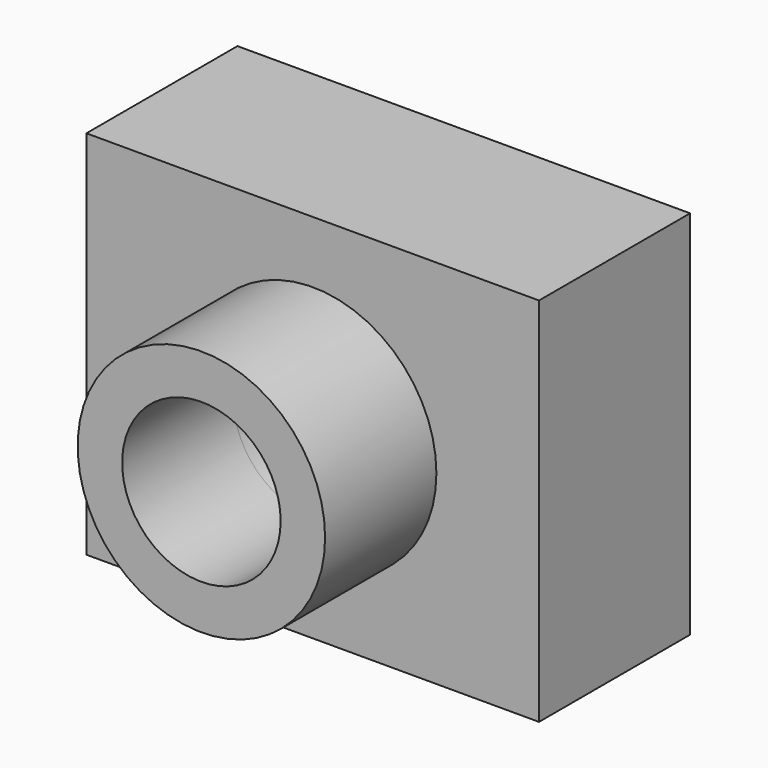
from build123d import *

# Parameters (mm, degrees)
F0_W      = 123.952538
F0_H      = 51.712212
F1_DEPTH  = 101.6
F2_R      = 33.878602
F2_R_2    = 21.701587
F3_DEPTH  = 38.1
F3_FACE_R = 21.701587
F4_DEPTH  = 2540


with BuildPart() as f1:
    # F0 (on Top) → F1 (new body)
    with BuildSketch(Plane.XY):
        Rectangle(F0_W, F0_H)
    extrude(amount=F1_DEPTH)

    # F2 (on face) → F3 (join)
    with BuildSketch(Plane.XZ.offset(25.856106)):
        with Locations((0, 50.8)):
            Circle(F2_R)
        with Locations((0, 50.8)):
            Circle(F2_R_2, mode=Mode.SUBTRACT)
    extrude(amount=F3_DEPTH)

    # F3_face (on face) → F4 (cut)
    with BuildSketch(Plane(origin=(0, -25.856106, 50.8), x_dir=(1, 0, 0), z_dir=(0, -1, 0))):
        Circle(F3_FACE_R)
    extrude(amount=-F4_DEPTH, mode=Mode.SUBTRACT)


solid = f1.part
